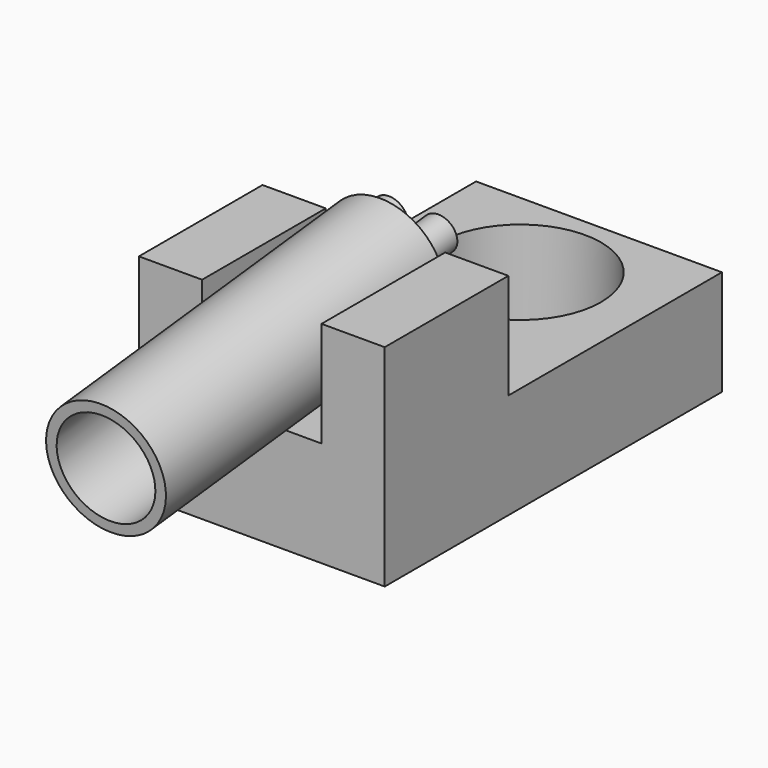
from build123d import *

# Parameters (mm, degrees)
CYLINDER010_R          = 11.5
CYLINDER010_DEPTH      = 20
BOX_W                  = 35
BOX_H                  = 60
BOX_DEPTH              = 15
BOX002_W               = 9
BOX002_H               = 22
BOX002_DEPTH           = 15
BOX001_W               = 9
BOX001_H               = 22
BOX001_DEPTH           = 15
CYLINDER009_R          = 1.4
CYLINDER009_DEPTH      = 50
CYLINDER008_R          = 2.5
CYLINDER008_DEPTH      = 12
CYLINDER007_R          = 1.4
CYLINDER007_DEPTH      = 50
CYLINDER006_R          = 2.5
CYLINDER006_DEPTH      = 12
CYLINDER005_R          = 3
CYLINDER005_DEPTH      = 60
CYLINDER004_R          = 4
CYLINDER004_DEPTH      = 40
CYLINDER002_R          = 7
CYLINDER002_DEPTH      = 46
CYLINDER_R             = 8.5
CYLINDER_DEPTH         = 50
CUT004_PLACEMENT_ANGLE = 6.4


with BuildPart() as cylinder010:
    # Cylinder010 → Cylinder010 (new body)
    with BuildSketch(Plane(origin=(17.5, 46, -2), x_dir=(1, 0, 0), z_dir=(0, 0, 1))):
        Circle(CYLINDER010_R)
    extrude(amount=CYLINDER010_DEPTH)


with BuildPart() as cut:
    # Box → Box (new body)
    with BuildSketch(Plane.XY):
        with Locations((17.5, 30)):
            Rectangle(BOX_W, BOX_H)
    extrude(amount=BOX_DEPTH)

    # Cut: cut Cylinder010
    add(cylinder010.part, mode=Mode.SUBTRACT)


with BuildPart() as cube002:
    # Box002 → Box002 (new body)
    with BuildSketch(Plane(origin=(26, 0, 15), x_dir=(1, 0, 0), z_dir=(0, 0, 1))):
        with Locations((4.5, 11)):
            Rectangle(BOX002_W, BOX002_H)
    extrude(amount=BOX002_DEPTH)


with BuildPart() as cube001:
    # Box001 → Box001 (new body)
    with BuildSketch(Plane.XY.offset(15)):
        with Locations((4.5, 11)):
            Rectangle(BOX001_W, BOX001_H)
    extrude(amount=BOX001_DEPTH)


with BuildPart() as cylinder009:
    # Cylinder009 → Cylinder009 (new body)
    with BuildSketch(Plane(origin=(11.9, 44, 26), x_dir=(1, 0, 0), z_dir=(0, -1, 0))):
        Circle(CYLINDER009_R)
    extrude(amount=CYLINDER009_DEPTH)


with BuildPart() as cylinder008:
    # Cylinder008 → Cylinder008 (new body)
    with BuildSketch(Plane(origin=(11.9, 30, 26), x_dir=(1, 0, 0), z_dir=(0, -1, 0))):
        Circle(CYLINDER008_R)
    extrude(amount=CYLINDER008_DEPTH)


with BuildPart() as cylinder007:
    # Cylinder007 → Cylinder007 (new body)
    with BuildSketch(Plane(origin=(18.9, 45, 26), x_dir=(1, 0, 0), z_dir=(0, -1, 0))):
        Circle(CYLINDER007_R)
    extrude(amount=CYLINDER007_DEPTH)


with BuildPart() as cylinder006:
    # Cylinder006 → Cylinder006 (new body)
    with BuildSketch(Plane(origin=(18.9, 30, 26), x_dir=(1, 0, 0), z_dir=(0, -1, 0))):
        Circle(CYLINDER006_R)
    extrude(amount=CYLINDER006_DEPTH)


with BuildPart() as cylinder005:
    # Cylinder005 → Cylinder005 (new body)
    with BuildSketch(Plane(origin=(17.5, 18, 26), x_dir=(1, 0, 0), z_dir=(0, -1, 0))):
        Circle(CYLINDER005_R)
    extrude(amount=CYLINDER005_DEPTH)


with BuildPart() as cut002:
    # Cylinder004 → Cylinder004 (new body)
    with BuildSketch(Plane(origin=(17.5, 22, 26), x_dir=(1, 0, 0), z_dir=(0, -1, 0))):
        Circle(CYLINDER004_R)
    extrude(amount=CYLINDER004_DEPTH)

    # Cut002: cut Cylinder005
    add(cylinder005.part, mode=Mode.SUBTRACT)


with BuildPart() as cylinder002:
    # Cylinder002 → Cylinder002 (new body)
    with BuildSketch(Plane(origin=(17.5, 18, 26), x_dir=(1, 0, 0), z_dir=(0, -1, 0))):
        Circle(CYLINDER002_R)
    extrude(amount=CYLINDER002_DEPTH)


with BuildPart() as fusion004:
    # Cylinder → Cylinder (new body)
    with BuildSketch(Plane(origin=(17.5, 22, 26), x_dir=(1, 0, 0), z_dir=(0, -1, 0))):
        Circle(CYLINDER_R)
    extrude(amount=CYLINDER_DEPTH)

    # Cut001: cut Cylinder002
    add(cylinder002.part, mode=Mode.SUBTRACT)

    # Fusion: union Cut002
    add(cut002.part)

    # Fusion001: union Cylinder006
    add(cylinder006.part)

    # Cut003: cut Cylinder007
    add(cylinder007.part, mode=Mode.SUBTRACT)

    # Fusion002: union Cylinder008
    add(cylinder008.part)

    # Cut004: cut Cylinder009
    add(cylinder009.part, mode=Mode.SUBTRACT)


with BuildPart() as fusion004_1:
    # Cut004 placement: moved
    add(fusion004.part.moved(Location((0, 3, -2.3))).rotate(Axis((0, 3, -2.3), (1, 0, 0)), CUT004_PLACEMENT_ANGLE))

    # Fusion003: union Cube002, Cube001
    add(cube002.part)
    add(cube001.part)

    # Fusion004: union Cut
    add(cut.part)


solid = fusion004_1.part
